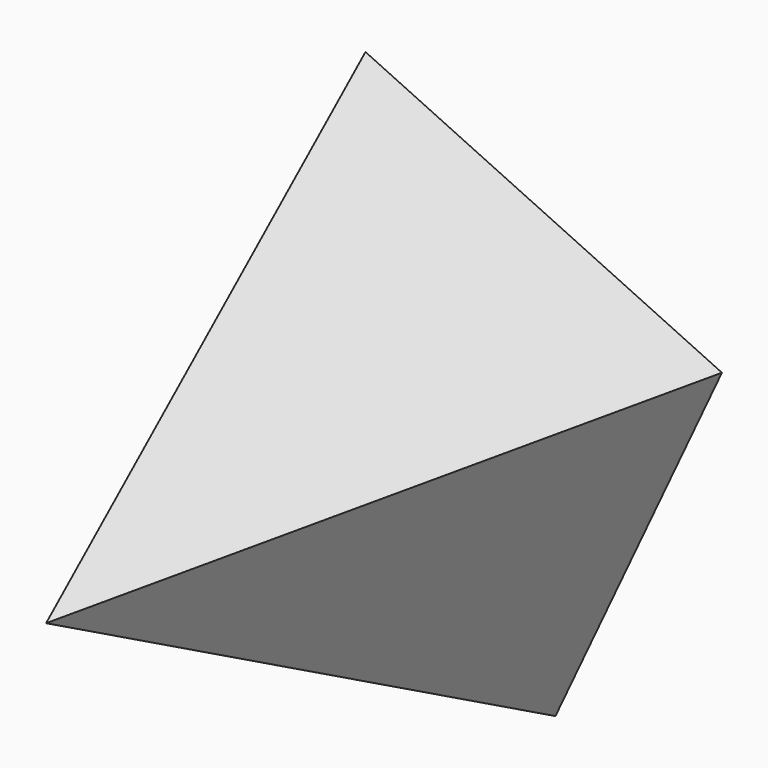
from build123d import *


with BuildPart() as f3:
    # F0 (on Front) → F3 section 0
    with BuildSketch(Plane.XZ, mode=Mode.PRIVATE) as f3_s0:
        Polygon((13.553606, -37.308853), (37.308853, 13.553606), (-13.553606, 37.308853), (-37.308853, -13.553606), align=None)
    loft([f3_s0.sketch, Vertex(0, -73.914, 0)])


solid = f3.part
